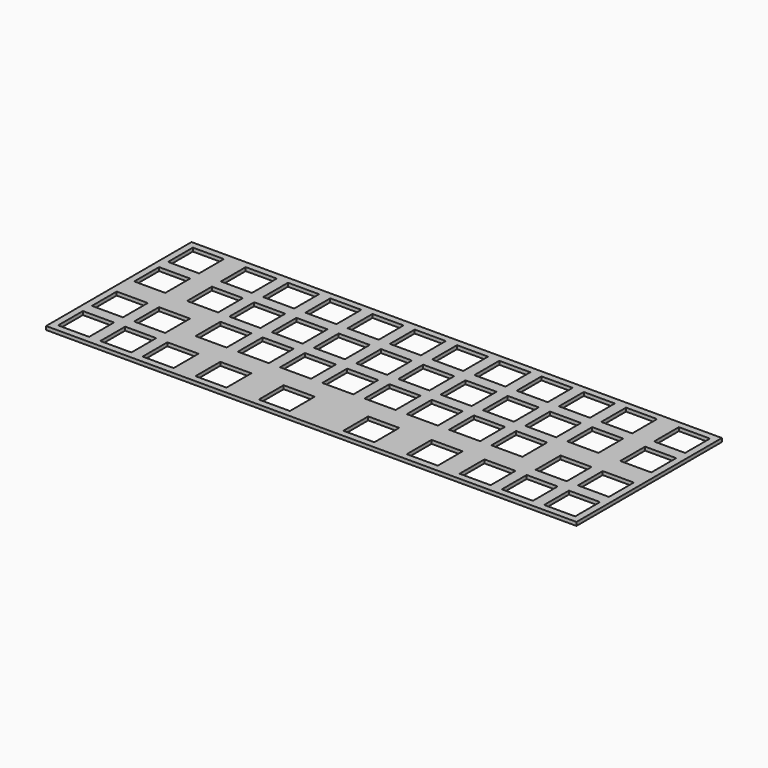
from build123d import *

# Parameters (mm, degrees)
SKETCH036_W     = 119.5625
SKETCH036_H     = 81.9625
PAD015_DEPTH    = 1.6
SKETCH037_W     = 14
SKETCH037_H     = 14
POCKET022_DEPTH = 5
SKETCH038_W     = 14
SKETCH038_H     = 14
POCKET023_DEPTH = 5
SKETCH039_W     = 14
SKETCH039_H     = 14
POCKET024_DEPTH = 5


with BuildPart() as plate:
    # Sketch036 → Pad015 (new body)
    with BuildSketch(Plane.XY):
        with Locations((-59.78125, 0)):
            Rectangle(SKETCH036_W, SKETCH036_H)
    extrude(amount=-PAD015_DEPTH)

    # Sketch037 → Pocket022 (cut)
    with BuildSketch(Plane.XY):
        with Locations((-9.525, 30.98125)):
            Rectangle(SKETCH037_W, SKETCH037_H)
        with Locations((-28.575, 30.98125)):
            Rectangle(SKETCH037_W, SKETCH037_H)
        with Locations((-47.625, 30.98125)):
            Rectangle(SKETCH037_W, SKETCH037_H)
        with Locations((-66.675, 30.98125)):
            Rectangle(SKETCH037_W, SKETCH037_H)
        with Locations((-85.725, 30.98125)):
            Rectangle(SKETCH037_W, SKETCH037_H)
        with Locations((-85.725, 11.93125)):
            Rectangle(SKETCH037_W, SKETCH037_H)
        with Locations((-66.675, 11.93125)):
            Rectangle(SKETCH037_W, SKETCH037_H)
        with Locations((-9.525, 11.93125)):
            Rectangle(SKETCH037_W, SKETCH037_H)
        with Locations((-47.625, 11.93125)):
            Rectangle(SKETCH037_W, SKETCH037_H)
        with Locations((-28.575, 11.93125)):
            Rectangle(SKETCH037_W, SKETCH037_H)
        with Locations((-9.525, -7.11875)):
            Rectangle(SKETCH037_W, SKETCH037_H)
        with Locations((-28.575, -7.11875)):
            Rectangle(SKETCH037_W, SKETCH037_H)
        with Locations((-47.625, -7.11875)):
            Rectangle(SKETCH037_W, SKETCH037_H)
        with Locations((-66.675, -7.11875)):
            Rectangle(SKETCH037_W, SKETCH037_H)
    extrude(amount=-POCKET022_DEPTH, mode=Mode.SUBTRACT)

    # Sketch038 → Pocket023 (cut)
    with BuildSketch(Plane.XY):
        with Locations((-109.5625, 30.98125)):
            Rectangle(SKETCH038_W, SKETCH038_H)
        with Locations((-109.5625, 11.93125)):
            Rectangle(SKETCH038_W, SKETCH038_H)
        with Locations((-109.5625, -11.93125)):
            Rectangle(SKETCH038_W, SKETCH038_H)
        with Locations((-109.5625, -30.98125)):
            Rectangle(SKETCH038_W, SKETCH038_H)
        with Locations((-90.5125, -11.93125)):
            Rectangle(SKETCH038_W, SKETCH038_H)
        with Locations((-90.5125, -30.98125)):
            Rectangle(SKETCH038_W, SKETCH038_H)
        with Locations((-71.4625, -30.98125)):
            Rectangle(SKETCH038_W, SKETCH038_H)
    extrude(amount=-POCKET023_DEPTH, mode=Mode.SUBTRACT)

    # Sketch039 → Pocket024 (cut)
    with BuildSketch(Plane.XY):
        with Locations((-47.625, -30.98125)):
            Rectangle(SKETCH039_W, SKETCH039_H)
        with Locations((-19.05, -30.98125)):
            Rectangle(SKETCH039_W, SKETCH039_H)
    extrude(amount=-POCKET024_DEPTH, mode=Mode.SUBTRACT)


with BuildPart() as case_plate:
    # Part__Mirroring002: instance of plate
    add(plate.part.mirror(Plane(origin=(0, 0, 0), x_dir=(0, -1, 0), z_dir=(1, 0, 0))))

    # Fusion002: union plate
    add(plate.part)


solid = case_plate.part
